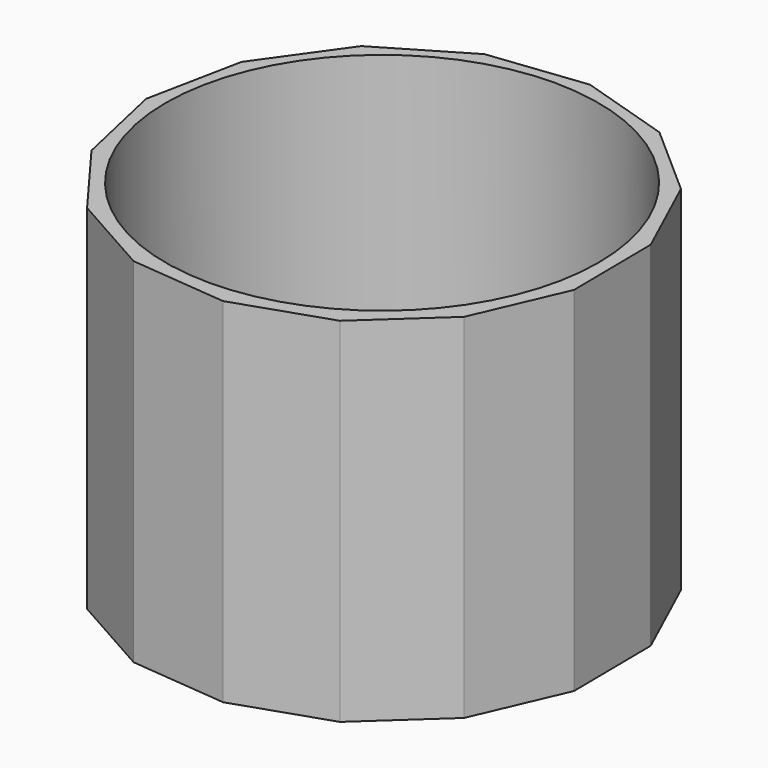
from build123d import *

# Parameters (mm, degrees)
F1_DEPTH = 100
F2_R     = 61.269346
F3_DEPTH = 97
F4_R     = 5
F5_DEPTH = 25


with BuildPart() as f1:
    # F0 (on Top) → F1 (new body)
    with BuildSketch(Plane.XY):
        Polygon((6.523423, 65.423498), (-20.813363, 62.254017), (-44.497616, 48.239678), (-60.434112, 25.80369), (-65.867287, -1.174563), (-59.857696, -28.030294), (-43.444451, -50.119905), (-19.465552, -63.6239), (7.932832, -66.207316), (34.013272, -57.423458), (54.266222, -38.791133), (65.189763, -13.532041), (64.895117, 13.986292), (53.433229, 39.005697), (32.785965, 57.200091), align=None)
    extrude(amount=F1_DEPTH)

    # F2 (on face) → F3 (cut)
    with BuildSketch(Plane.XY.offset(100)):
        Circle(F2_R)
    extrude(amount=-F3_DEPTH, mode=Mode.SUBTRACT)

    # F4 (on face) → F5 (cut)
    with BuildSketch(Plane.XY.offset(3)):
        Circle(F4_R)
    extrude(amount=-F5_DEPTH, mode=Mode.SUBTRACT)


solid = f1.part
